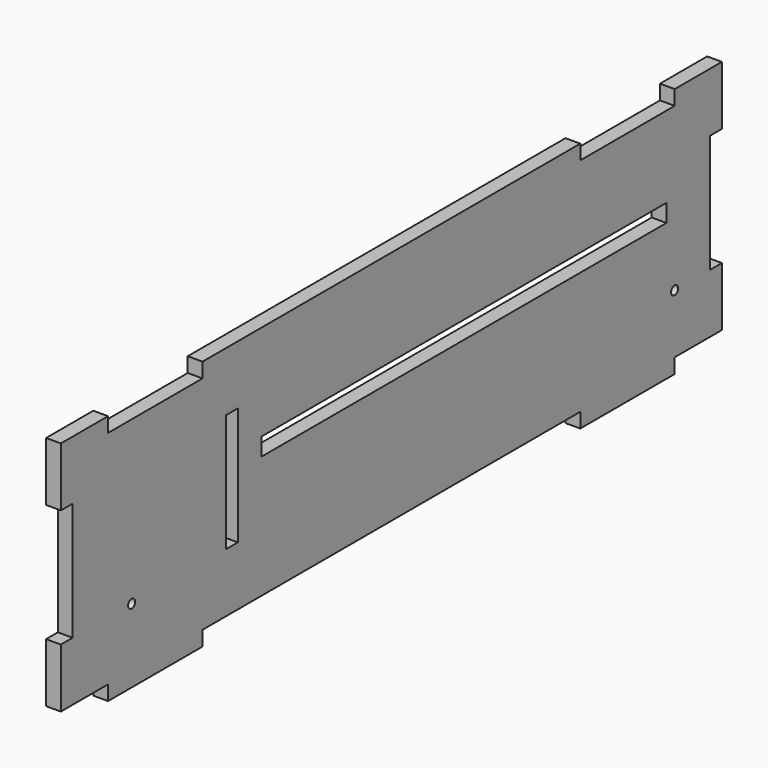
from build123d import *

# Parameters (mm, degrees)
F0_W      = 355.6
F0_H      = 101.6
F1_DEPTH  = 6.35
F2_W      = 50.8
F2_H      = 6.35
F3_DEPTH  = 6.35
F4_R      = 1.905
F5_DEPTH  = 6.351
F6_W      = 6.35
F6_H      = 50.8
F7_DEPTH  = 25.4
F9_W      = 6.35
F9_H      = 50.8
F10_DEPTH = 25.4
F11_W     = 50.8
F11_H     = 6.35
F12_DEPTH = 25.4
F13_W     = 217.805
F13_H     = 7.62
F14_DEPTH = 25.4


with BuildPart() as f1:
    # F0 (on Right) → F1 (new body)
    with BuildSketch(Plane.YZ):
        with Locations((0, 50.8)):
            Rectangle(F0_W, F0_H)
    extrude(amount=F1_DEPTH)

    # F4 (on face) → F5 (cut, through all)
    with BuildSketch(Plane.YZ.offset(6.35)):
        with Locations((152.4, 25.4)):
            Circle(F4_R)
        with Locations((-139.7, 25.4)):
            Circle(F4_R)
    extrude(amount=-F5_DEPTH, mode=Mode.SUBTRACT)

    # F6 (on face) → F7 (cut)
    with BuildSketch(Plane.YZ.offset(6.35)):
        with Locations((174.625, 50.8)):
            Rectangle(F6_W, F6_H)
        with Locations((-174.625, 50.8)):
            Rectangle(F6_W, F6_H)
    extrude(amount=-F7_DEPTH, mode=Mode.SUBTRACT)


with BuildPart() as f3:
    # F2 (on face) → F3 (new body)
    with BuildSketch(Plane.YZ.offset(6.35)):
        with Locations((127, -3.175)):
            Rectangle(F2_W, F2_H)
        with Locations((-127, -3.175)):
            Rectangle(F2_W, F2_H)
    extrude(amount=-F3_DEPTH)

    # F8: union F1
    add(f1.part)

    # F9 (on face) → F10 (cut)
    with BuildSketch(Plane.YZ.offset(6.35)):
        with Locations((-85.725, 50.8)):
            Rectangle(F9_W, F9_H)
    extrude(amount=-F10_DEPTH, mode=Mode.SUBTRACT)

    # F11 (on face) → F12 (cut)
    with BuildSketch(Plane.YZ.offset(6.35)):
        with Locations((-127, 98.425)):
            Rectangle(F11_W, F11_H)
        with Locations((127, 98.425)):
            Rectangle(F11_W, F11_H)
    extrude(amount=-F12_DEPTH, mode=Mode.SUBTRACT)

    # F13 (on face) → F14 (cut)
    with BuildSketch(Plane.YZ.offset(6.35)):
        with Locations((39.0525, 56.515)):
            Rectangle(F13_W, F13_H)
    extrude(amount=-F14_DEPTH, mode=Mode.SUBTRACT)


solid = f3.part
